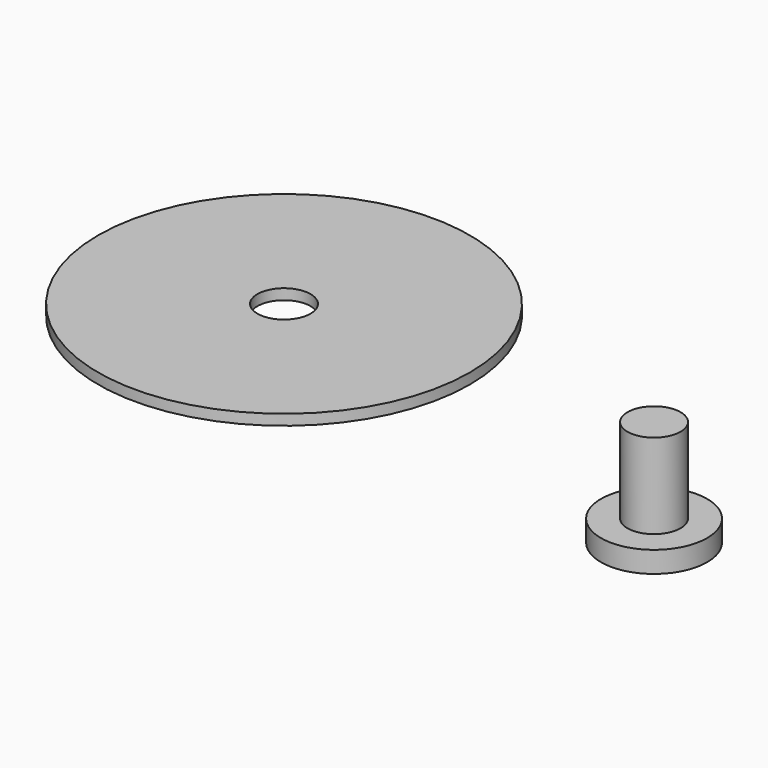
from build123d import *

# Parameters (mm, degrees)
F0_R     = 5
F0_R_2   = 2.5
F1_DEPTH = 2
F2_R     = 17.5
F2_R_2   = 2.5
F3_DEPTH = 1
F4_R     = 2.5
F5_DEPTH = 10


with BuildPart() as f1:
    # F0 (on Top) → F1 (new body)
    with BuildSketch(Plane.XY):
        Circle(F0_R)
        Circle(F0_R_2, mode=Mode.SUBTRACT)
    extrude(amount=F1_DEPTH)

    # F4 (on Top) → F5 (join)
    with BuildSketch(Plane.XY):
        Circle(F4_R)
    extrude(amount=F5_DEPTH)


with BuildPart() as f3:
    # F2 (on Top) → F3 (new body)
    with BuildSketch(Plane.XY):
        with Locations((-43.793578, 11.184639)):
            Circle(F2_R)
        with Locations((-43.793578, 11.184639)):
            Circle(F2_R_2, mode=Mode.SUBTRACT)
    extrude(amount=F3_DEPTH)


solid = Compound([f1.part, f3.part])
